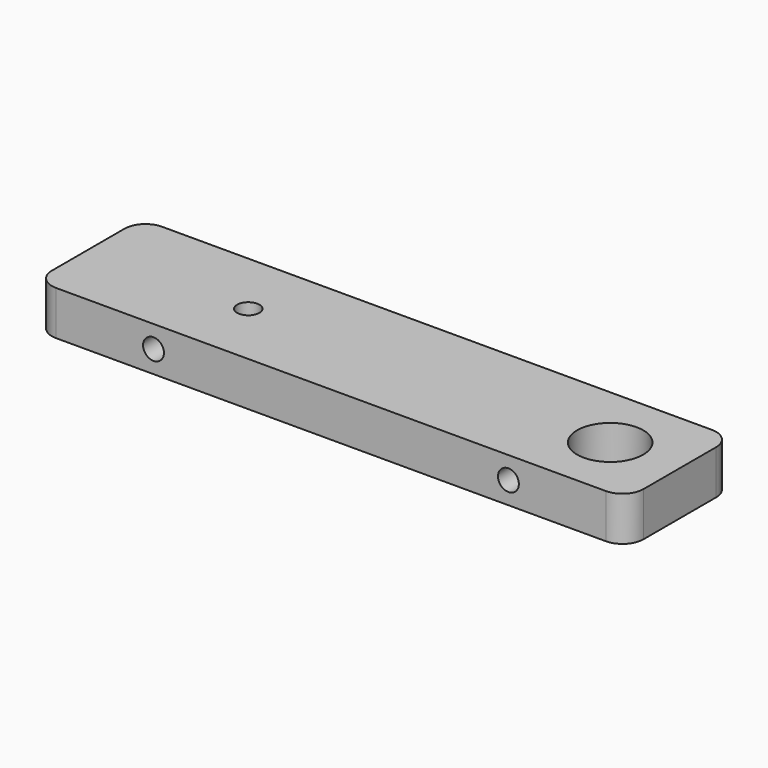
from build123d import *

# Parameters (mm, degrees)
F0_W     = 85
F0_H     = 19.05
F0_R     = 1.6
F0_R_2   = 4.75
F1_DEPTH = 3.175
F2_R     = 1.5
F3_DEPTH = 5
F4_R     = 3


with BuildPart() as f1:
    # F0 (on Top) → F1 (new body, symmetric)
    with BuildSketch(Plane.XY):
        Rectangle(F0_W, F0_H)
        with Locations((-19.5, 0)):
            Circle(F0_R, mode=Mode.SUBTRACT)
        with Locations((32.5, 0)):
            Circle(F0_R_2, mode=Mode.SUBTRACT)
    extrude(amount=F1_DEPTH, both=True)

    # F2 (on face) → F3 (cut)
    with BuildSketch(Plane.XZ.offset(9.525)):
        with Locations((-25.5, 0)):
            Circle(F2_R)
        with Locations((25.5, 0)):
            Circle(F2_R)
    extrude(amount=-F3_DEPTH, mode=Mode.SUBTRACT)

    # F4
    f4_edges = [f1.edges().sort_by_distance(p)[0] for p in [
        (42.5, -9.525, 0),
        (42.5, 9.525, 0),
        (-42.5, -9.525, 0),
        (-42.5, 9.525, 0),
    ]]
    fillet(f4_edges, radius=F4_R)


solid = f1.part
